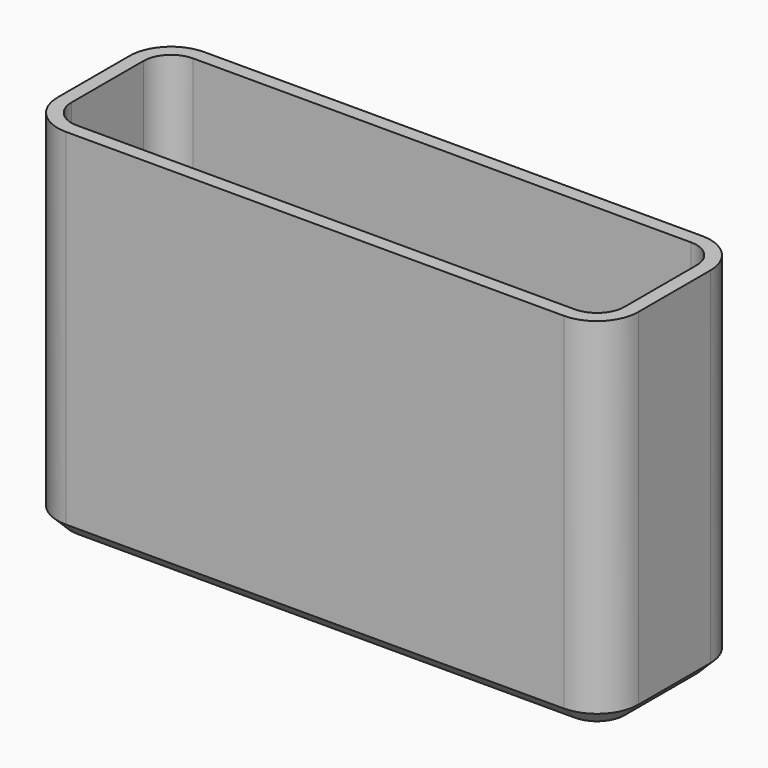
from build123d import *

# Parameters (mm, degrees)
F0_W     = 42
F0_H     = 12.5
F1_DEPTH = 26
F2_R     = 3
F4_DEPTH = 24
F5_SIZE  = 1


with BuildPart() as f1:
    # F0 (on Top) → F1 (new body)
    with BuildSketch(Plane.XY):
        Rectangle(F0_W, F0_H)
    extrude(amount=F1_DEPTH)

    # F2
    f2_edges = [f1.edges().sort_by_distance(p)[0] for p in [
        (-21, 6.25, 13),
        (-21, -6.25, 13),
        (21, 6.25, 13),
        (21, -6.25, 13),
    ]]
    fillet(f2_edges, radius=F2_R)

    # F3 (on face) → F4 (cut)
    with BuildSketch(Plane.XY.offset(26)):
        with BuildLine():
            Line((18, 5.25), (-18, 5.25))
            ThreePointArc((-18, 5.25), (-19.4142135624, 4.6642135624), (-20, 3.25))
            Line((-20, 3.25), (-20, -3.25))
            ThreePointArc((-20, -3.25), (-19.4142135624, -4.6642135624), (-18, -5.25))
            Line((-18, -5.25), (18, -5.25))
            ThreePointArc((18, -5.25), (19.4142135624, -4.6642135624), (20, -3.25))
            Line((20, -3.25), (20, 3.25))
            ThreePointArc((20, 3.25), (19.4142135624, 4.6642135624), (18, 5.25))
        make_face()
    extrude(amount=-F4_DEPTH, mode=Mode.SUBTRACT)

    # F5
    f5_edges = [f1.edges().sort_by_distance(p)[0] for p in [
        (0, 6.25, 0),
        (20.12132, 5.37132, 0),
        (21, 0, 0),
        (20.12132, -5.37132, 0),
        (0, -6.25, 0),
        (-20.12132, -5.37132, 0),
        (-21, 0, 0),
        (-20.12132, 5.37132, 0),
    ]]
    chamfer(f5_edges, length=F5_SIZE)


solid = f1.part
